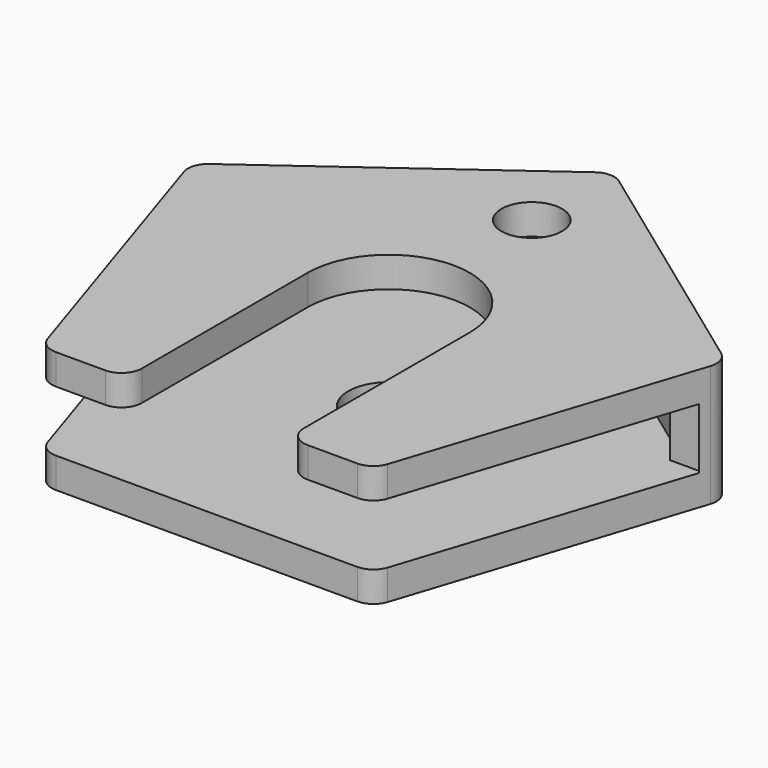
from build123d import *

# Parameters (mm, degrees)
F1_DEPTH  = 6
F2_T      = -1.5
F3_DEPTH  = 5
F4_T      = -1.5
F5_W      = 25.7072905079
F5_H      = 3
F6_DEPTH  = 14.5
F8_DEPTH  = 2
F9_R      = 2
F10_DEPTH = 25
F11_R     = 1
F12_R     = 1.5
F13_DEPTH = 2


with BuildPart() as f1:
    # F0 (on Top) → F1 (new body)
    with BuildSketch(Plane.XY):
        Polygon((8.1736034401, -11.25), (13.2251681766, 4.2971176266), (0, 13.9057647469), (-13.2251681766, 4.2971176266), (-8.1736034401, -11.25), align=None)
    extrude(amount=F1_DEPTH)

    # F2
    f2_openings = [f1.faces().sort_by_distance(p)[0] for p in [
        (10.699386, -3.476441, 3),
    ]]
    offset(amount=F2_T, openings=f2_openings)

    # F0 (on Top) → F3 (join)
    with BuildSketch(Plane.XY):
        Polygon((8.1736034401, -11.25), (13.2251681766, 4.2971176266), (0, 13.9057647469), (-13.2251681766, 4.2971176266), (-8.1736034401, -11.25), align=None)
    extrude(amount=F3_DEPTH)

    # F4
    f4_openings = [f1.faces().sort_by_distance(p)[0] for p in [
        (0, -11.25, 3),
    ]]
    offset(amount=F4_T, openings=f4_openings)

    # F5 (on face) → F6 (cut)
    with BuildSketch(Plane.XZ.offset(11.25)):
        with Locations((-0.012323726, 3)):
            Rectangle(F5_W, F5_H)
    extrude(amount=-F6_DEPTH, mode=Mode.SUBTRACT)

    # F7 (on face) → F8 (cut)
    with BuildSketch(Plane.XY.offset(6)):
        with BuildLine():
            Line((4, -12.5590292737), (4, 0))
            ThreePointArc((4, 0), (0, 4), (-4, 0))
            Line((-4, 0), (-4, -12.5590292737))
            Line((-4, -12.5590292737), (4, -12.5590292737))
        make_face()
    extrude(amount=-F8_DEPTH, mode=Mode.SUBTRACT)

    # F9 (on face) → F10 (cut)
    with BuildSketch(Plane.XY.offset(1.5)):
        Circle(F9_R)
    extrude(amount=-F10_DEPTH, mode=Mode.SUBTRACT)

    # F11
    f11_edges = [f1.edges().sort_by_distance(p)[0] for p in [
        (8.173603, -11.25, 5.25),
        (13.225168, 4.297118, 3),
        (8.173603, -11.25, 0.75),
        (-8.173603, -11.25, 0.75),
        (-8.173603, -11.25, 5.25),
        (-4, -11.25, 5.25),
        (4, -11.25, 5.25),
        (0, 13.905765, 3),
        (-13.225168, 4.297118, 3),
    ]]
    fillet(f11_edges, radius=F11_R)

    # F12 (on face) → F13 (cut)
    with BuildSketch(Plane.XY.offset(6)):
        with Locations((0, 8.8348483847)):
            Circle(F12_R)
    extrude(amount=-F13_DEPTH, mode=Mode.SUBTRACT)


solid = f1.part
